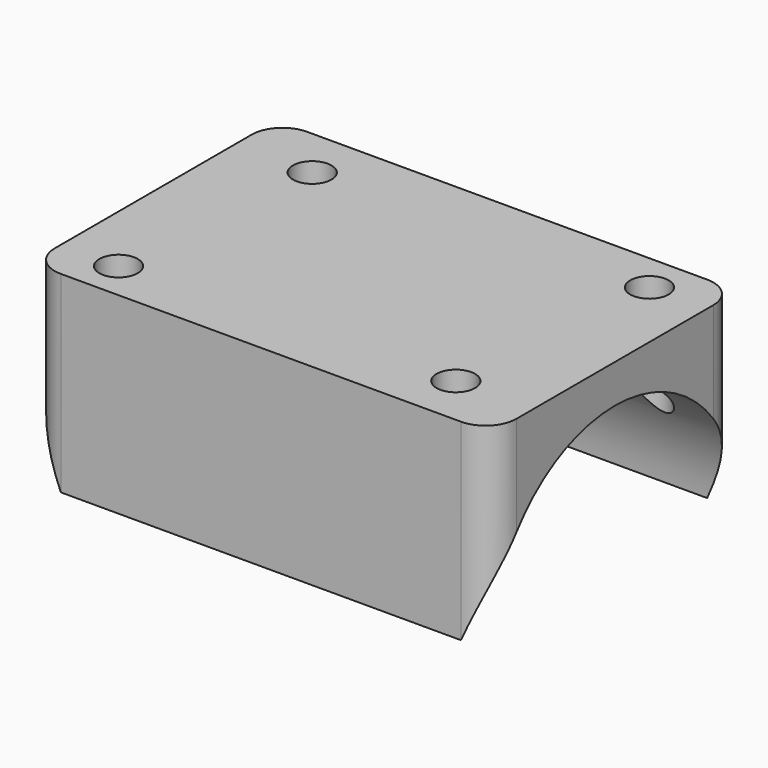
from build123d import *

# Parameters (mm, degrees)
F0_W     = 76.2
F0_H     = 50.8
F0_R     = 3.175
F1_DEPTH = 31.75
F2_R     = 5.08
F4_DEPTH = 76.201


with BuildPart() as f1:
    # F0 (on Top) → F1 (new body)
    with BuildSketch(Plane.XY):
        Rectangle(F0_W, F0_H)
        with Locations((-28.575, -19.05)):
            Circle(F0_R, mode=Mode.SUBTRACT)
        with Locations((25.4, -16.933333)):
            Circle(F0_R, mode=Mode.SUBTRACT)
        with Locations((-25.4, 16.933333)):
            Circle(F0_R, mode=Mode.SUBTRACT)
        with Locations((28.575, 19.05)):
            Circle(F0_R, mode=Mode.SUBTRACT)
    extrude(amount=F1_DEPTH)

    # F2
    f2_edges = [f1.edges().sort_by_distance(p)[0] for p in [
        (-38.1, 25.4, 15.875),
        (-38.1, -25.4, 15.875),
        (38.1, 25.4, 15.875),
        (38.1, -25.4, 15.875),
    ]]
    fillet(f2_edges, radius=F2_R)

    # F3 (on face) → F4 (cut, through all)
    with BuildSketch(Plane(origin=(-38.1, 0, 0), x_dir=(0, -1, 0), z_dir=(-1, 0, 0))):
        with BuildLine():
            Line((-25.4, 0), (25.4, 0))
            ThreePointArc((25.4, 0), (0, 25.4), (-25.4, 0))
        make_face()
    extrude(amount=-F4_DEPTH, mode=Mode.SUBTRACT)


solid = f1.part
